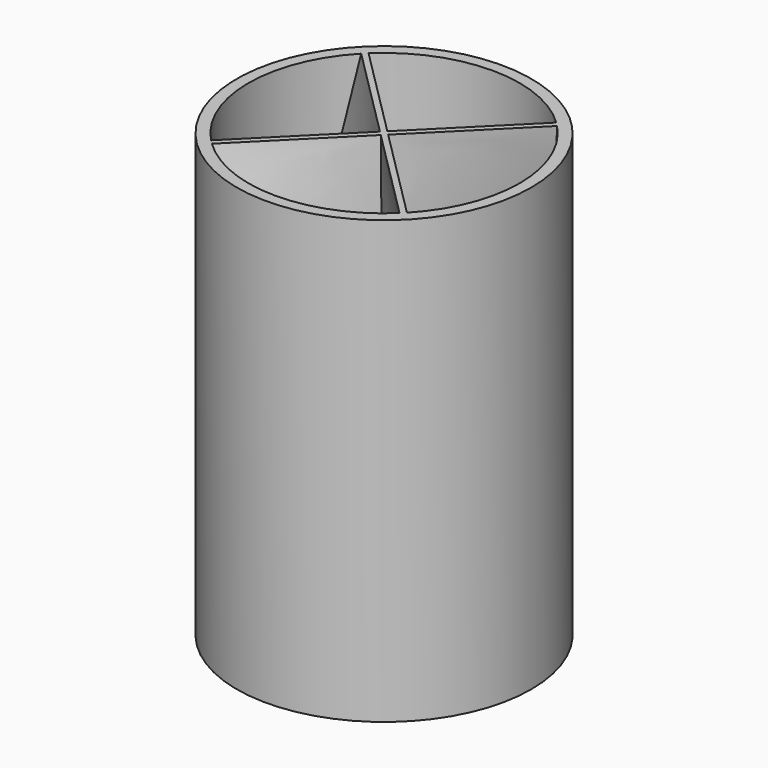
from build123d import *

# Parameters (mm, degrees)
F0_R     = 25.4
F0_R_2   = 23.4
F1_DEPTH = 76.2
F2_W     = 1
F2_H     = 24.8149117469
F2_W_2   = 24.8222645992
F2_H_2   = 1


with BuildPart() as f1:
    # F0 (on Top) → F1 (new body)
    with BuildSketch(Plane.XY):
        Circle(F0_R)
        Circle(F0_R_2, mode=Mode.SUBTRACT)
    extrude(amount=F1_DEPTH)

    # F2 (on Top) → F5 section 0
    with BuildSketch(Plane.XY):
        with Locations((0, -12.9074558734)):
            Rectangle(F2_W, F2_H)
    # F4 (on offset) → F5 section 1
    with BuildSketch(Plane.XY.offset(76.2)):
        Polygon((0, -0.7071067812), (-0.7071067812, 0), (-18.1997778835, -17.4926711023), (-17.4926711023, -18.1997778835), align=None)
    loft()

    # F2 (on Top) → F6 section 0
    with BuildSketch(Plane.XY):
        with Locations((-12.9111322996, 0)):
            Rectangle(F2_W_2, F2_H_2)
    # F4 (on offset) → F6 section 1
    with BuildSketch(Plane.XY.offset(76.2)):
        Polygon((-17.4616031125, 18.1687098937), (-18.1687098937, 17.4616031125), (-0.7071067812, 0), (0, 0.7071067812), align=None)
    loft()

    # F2 (on Top) → F7 section 0
    with BuildSketch(Plane.XY):
        with Locations((0, 12.9074558734)):
            Rectangle(F2_W, F2_H)
    # F4 (on offset) → F7 section 1
    with BuildSketch(Plane.XY.offset(76.2)):
        Polygon((17.4926711023, 18.1997778835), (0, 0.7071067812), (0.7071067812, 0), (18.1997778835, 17.4926711023), align=None)
    loft()

    # F2 (on Top) → F8 section 0
    with BuildSketch(Plane.XY):
        with Locations((12.9111322996, 0)):
            Rectangle(F2_W_2, F2_H_2)
    # F4 (on offset) → F8 section 1
    with BuildSketch(Plane.XY.offset(76.2)):
        Polygon((0.7071067812, 0), (0, -0.7071067812), (17.4616031125, -18.1687098937), (18.1687098937, -17.4616031125), align=None)
    loft()

    # F4 (on offset) → F9 section 0
    with BuildSketch(Plane.XY.offset(76.2)):
        Polygon((0, 0.7071067812), (-0.7071067812, 0), (0, -0.7071067812), (0.7071067812, 0), align=None)
    # F2 (on Top) → F9 section 1
    with BuildSketch(Plane.XY):
        Rectangle(F2_W, F2_H_2)
    loft()


solid = f1.part
